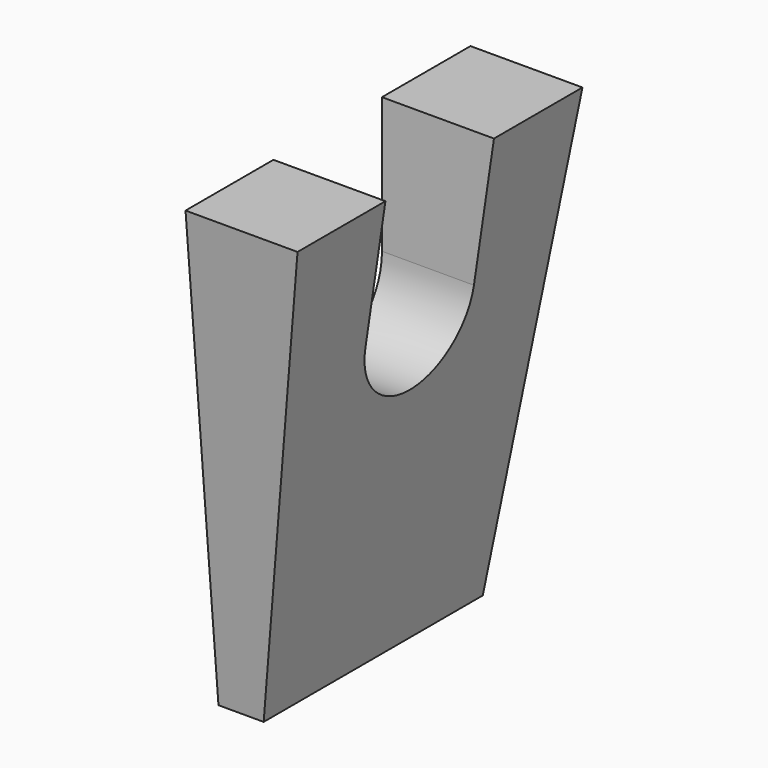
from build123d import *

# Parameters (mm, degrees)
CYLINDER_R           = 15
CYLINDER_DEPTH       = 100
CYLINDER_PITCH_ANGLE = 90
BOX005_W             = 100
BOX005_H             = 30
BOX005_DEPTH         = 30
BOX004_W             = 40
BOX004_H             = 40
BOX004_DEPTH         = 120
BOX004_ROLL_ANGLE    = -5.2
BOX003_W             = 40
BOX003_H             = 40
BOX003_DEPTH         = 120
BOX003_ROLL_ANGLE    = 5.2
BOX001_W             = 19
BOX001_H             = 100
BOX001_DEPTH         = 110
BOX001_PITCH_ANGLE   = 8.4
BOX_W                = 25
BOX_H                = 80
BOX_DEPTH            = 100


with BuildPart() as cylinder:
    # Cylinder → Cylinder (new body)
    with BuildSketch(Plane.XY):
        Circle(CYLINDER_R)
    extrude(amount=CYLINDER_DEPTH)


with BuildPart() as cylinder_1:
    # Cylinder pitch: moved
    add(cylinder.part.rotate(Axis((0, 0, 0), (0, 1, 0)), CYLINDER_PITCH_ANGLE))


with BuildPart() as cylinder_2:
    # Cylinder placement: moved
    add(cylinder_1.part.moved(Location((0, 40, 70))))


with BuildPart() as fusion:
    # Box005 → Box005 (new body)
    with BuildSketch(Plane(origin=(0, 25, 70), x_dir=(1, 0, 0), z_dir=(0, 0, 1))):
        with Locations((50, 15)):
            Rectangle(BOX005_W, BOX005_H)
    extrude(amount=BOX005_DEPTH)

    # Fusion: union Cylinder
    add(cylinder_2.part)


with BuildPart() as cube002:
    # Box004 → Box004 (new body)
    with BuildSketch(Plane.XY):
        with Locations((20, 20)):
            Rectangle(BOX004_W, BOX004_H)
    extrude(amount=BOX004_DEPTH)


with BuildPart() as cube002_1:
    # Box004 roll: moved
    add(cube002.part.rotate(Axis((0, 0, 0), (1, 0, 0)), BOX004_ROLL_ANGLE))


with BuildPart() as cube002_2:
    # Box004 placement: moved
    add(cube002_1.part.moved(Location((0, 70, -4))))


with BuildPart() as cube003:
    # Box003 → Box003 (new body)
    with BuildSketch(Plane.XY):
        with Locations((20, 20)):
            Rectangle(BOX003_W, BOX003_H)
    extrude(amount=BOX003_DEPTH)


with BuildPart() as cube003_1:
    # Box003 roll: moved
    add(cube003.part.rotate(Axis((0, 0, 0), (1, 0, 0)), BOX003_ROLL_ANGLE))


with BuildPart() as cube003_2:
    # Box003 placement: moved
    add(cube003_1.part.moved(Location((0, -30, -4))))


with BuildPart() as cube001:
    # Box001 → Box001 (new body)
    with BuildSketch(Plane.XY):
        with Locations((9.5, 50)):
            Rectangle(BOX001_W, BOX001_H)
    extrude(amount=BOX001_DEPTH)


with BuildPart() as cube001_1:
    # Box001 pitch: moved
    add(cube001.part.rotate(Axis((0, 0, 0), (0, 1, 0)), BOX001_PITCH_ANGLE))


with BuildPart() as cube001_2:
    # Box001 placement: moved
    add(cube001_1.part.moved(Location((10, 0, 0))))


with BuildPart() as cut003:
    # Box → Box (new body)
    with BuildSketch(Plane.XY):
        with Locations((12.5, 40)):
            Rectangle(BOX_W, BOX_H)
    extrude(amount=BOX_DEPTH)

    # Cut: cut Cube001
    add(cube001_2.part, mode=Mode.SUBTRACT)

    # Cut001: cut Cube003
    add(cube003_2.part, mode=Mode.SUBTRACT)

    # Cut002: cut Cube002
    add(cube002_2.part, mode=Mode.SUBTRACT)

    # Cut003: cut Fusion
    add(fusion.part, mode=Mode.SUBTRACT)


solid = cut003.part
